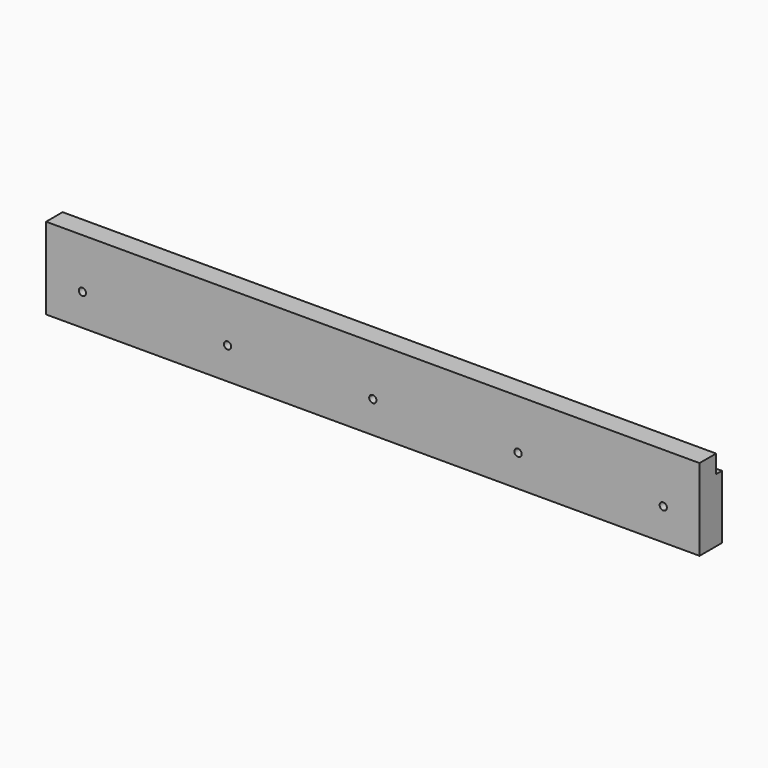
from build123d import *

# Parameters (mm, degrees)
F0_W     = 457.2
F0_H     = 57.15
F1_DEPTH = 19.558
F2_W     = 5.08
F2_H     = 12.7
F3_DEPTH = 457.2
F4_R     = 2.54
F5_DEPTH = 19.558


with BuildPart() as f1:
    # F0 (on Front) → F1 (new body)
    with BuildSketch(Plane.XZ):
        Rectangle(F0_W, F0_H)
    extrude(amount=F1_DEPTH)

    # F2 (on face) → F3 (cut, through all)
    with BuildSketch(Plane(origin=(-228.6, 0, 0), x_dir=(0, -1, 0), z_dir=(-1, 0, 0))):
        with Locations((2.54, 22.225)):
            Rectangle(F2_W, F2_H)
    extrude(amount=-F3_DEPTH, mode=Mode.SUBTRACT)

    # F4 (on face) → F5 (cut, through all)
    with BuildSketch(Plane.XZ.offset(19.558)):
        with BuildLine():
            ThreePointArc((-2.54, -6.35), (-1.796051, -8.146051), (0, -8.89))
            Line((0, -8.89), (0, -6.35))
            Line((0, -6.35), (-2.54, -6.35))
        make_face()
        with Locations((-203.2, -6.35)):
            Circle(F4_R)
        with BuildLine():
            ThreePointArc((-104.14, -6.35), (-101.6, -8.89), (-99.06, -6.35))
            Line((-99.06, -6.35), (-101.6, -6.35))
            Line((-101.6, -6.35), (-104.14, -6.35))
        make_face()
        with BuildLine():
            Line((-101.6, -6.35), (-99.06, -6.35))
            ThreePointArc((-99.06, -6.35), (-101.6, -3.81), (-104.14, -6.35))
            Line((-104.14, -6.35), (-101.6, -6.35))
        make_face()
        with BuildLine():
            ThreePointArc((205.74, -6.35), (203.2, -3.81), (200.66, -6.35))
            ThreePointArc((200.66, -6.35), (203.2, -8.89), (205.74, -6.35))
        make_face()
        with BuildLine():
            ThreePointArc((104.14, -6.35), (101.6, -3.81), (99.06, -6.35))
            Line((99.06, -6.35), (101.6, -6.35))
            Line((101.6, -6.35), (104.14, -6.35))
        make_face()
        with BuildLine():
            Line((101.6, -6.35), (99.06, -6.35))
            ThreePointArc((99.06, -6.35), (101.6, -8.89), (104.14, -6.35))
            Line((104.14, -6.35), (101.6, -6.35))
        make_face()
        with BuildLine():
            Line((0, -6.35), (0, -8.89))
            ThreePointArc((0, -8.89), (1.796051, -8.146051), (2.54, -6.35))
            Line((2.54, -6.35), (0, -6.35))
        make_face()
        with BuildLine():
            Line((-2.54, -6.35), (0, -6.35))
            Line((0, -6.35), (2.54, -6.35))
            ThreePointArc((2.54, -6.35), (0, -3.81), (-2.54, -6.35))
        make_face()
    extrude(amount=-F5_DEPTH, mode=Mode.SUBTRACT)


solid = f1.part
